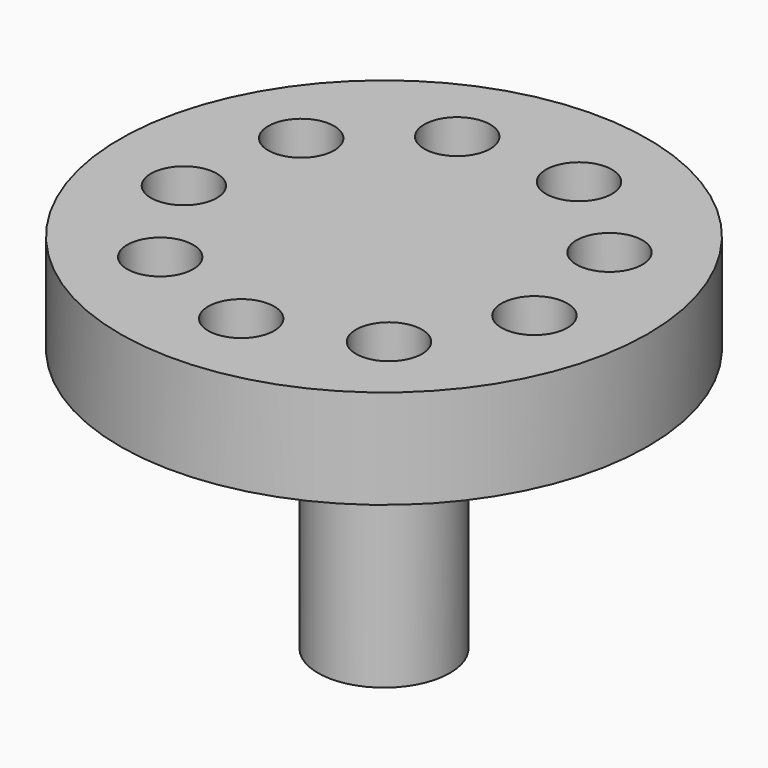
from build123d import *

# Parameters (mm, degrees)
SKETCH001_R        = 2.5
POCKET_DEPTH       = 7.5
POLARPATTERN_COUNT = 9


with BuildPart() as part:
    # Sketch → Revolution (revolve)
    with BuildSketch(Plane.XZ):
        Polygon((0, 0), (5, 0), (5, 20), (20, 20), (20, 27.5), (0, 27.5), align=None)
    revolve(axis=Axis((0, 0, 0), (0, 0, 1)))

    # Sketch001 (on Face5 of Revolution) → Pocket (cut)
    with BuildSketch(Plane(origin=(0, 0, 27.5), x_dir=(-1, 0, 0), z_dir=(0, 0, 1))):
        with Locations((0.017617, 13.499989)):
            Circle(SKETCH001_R)
    pocket = extrude(amount=-POCKET_DEPTH, mode=Mode.SUBTRACT)

    # PolarPattern: Pocket ×9 about axis
    polarpattern_axis = Axis((0, 0, 27.5), (0, 0, 1))
    for i in range(1, POLARPATTERN_COUNT):
        add(pocket.rotate(polarpattern_axis, i * 360 / POLARPATTERN_COUNT), mode=Mode.SUBTRACT)


solid = part.part
